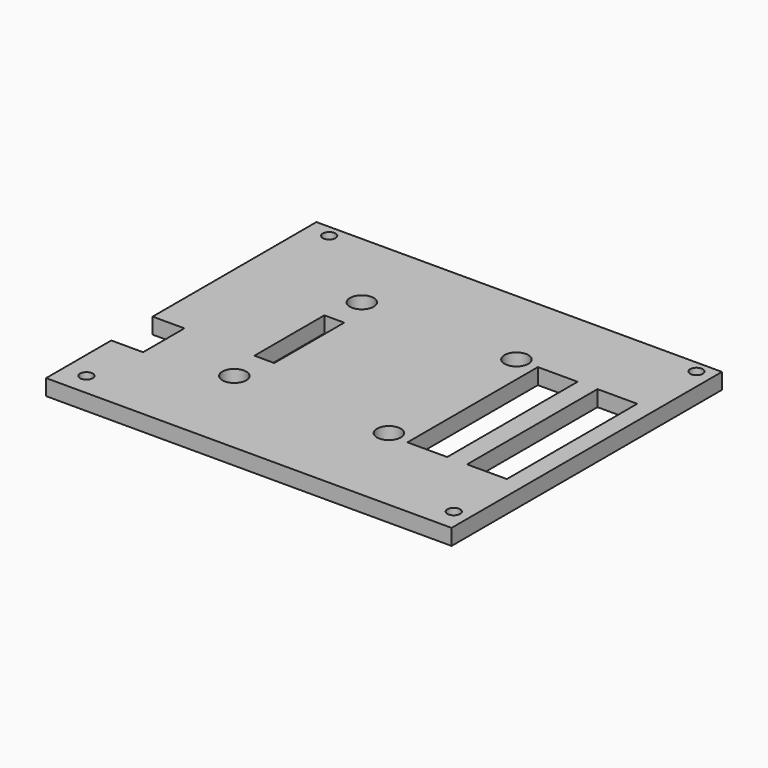
from build123d import *

# Parameters (mm, degrees)
CYLINDER010_R          = 1.6
CYLINDER010_DEPTH      = 10
CYLINDER012_R          = 1.6
CYLINDER012_DEPTH      = 10
CYLINDER011_R          = 1.6
CYLINDER011_DEPTH      = 10
CYLINDER013_R          = 1.6
CYLINDER013_DEPTH      = 10
BOX014_W               = 16
BOX014_H               = 3
BOX014_DEPTH           = 4
BOX014_PLACEMENT_ANGLE = 90
BOX018_W               = 5
BOX018_H               = 3
BOX018_DEPTH           = 3
BOX018_PLACEMENT_ANGLE = 90
BOX013_W               = 16
BOX013_H               = 3
BOX013_DEPTH           = 4
BOX013_PLACEMENT_ANGLE = 90
BOX015_W               = 25
BOX015_H               = 6
BOX015_DEPTH           = 4
BOX016_W               = 25
BOX016_H               = 6
BOX016_DEPTH           = 4
BOX017_W               = 5
BOX017_H               = 3
BOX017_DEPTH           = 3
CYLINDER004_R          = 3
CYLINDER004_DEPTH      = 2
CYLINDER005_R          = 3
CYLINDER005_DEPTH      = 2
CYLINDER008_R          = 1.6
CYLINDER008_DEPTH      = 10
CYLINDER007_R          = 1.6
CYLINDER007_DEPTH      = 10
CYLINDER009_R          = 1.6
CYLINDER009_DEPTH      = 10
CYLINDER006_R          = 1.6
CYLINDER006_DEPTH      = 10
BOX012_W               = 21
BOX012_H               = 3
BOX012_DEPTH           = 4
CYLINDER001_R          = 3
CYLINDER001_DEPTH      = 10
CYLINDER002_R          = 3
CYLINDER002_DEPTH      = 10
CYLINDER_R             = 3
CYLINDER_DEPTH         = 10
CYLINDER003_R          = 3
CYLINDER003_DEPTH      = 10
BOX011_W               = 5
BOX011_H               = 22
BOX011_DEPTH           = 10
BOX009_W               = 10
BOX009_H               = 41
BOX009_DEPTH           = 10
BOX010_W               = 10
BOX010_H               = 41
BOX010_DEPTH           = 10
BOX006_W               = 17
BOX006_H               = 13
BOX006_DEPTH           = 10
BOX_W                  = 102
BOX_H                  = 85
BOX_DEPTH              = 4


with BuildPart() as cylinder010:
    # Cylinder010 → Cylinder010 (new body)
    with BuildSketch(Plane(origin=(3.6, 5.69, 0), x_dir=(1, 0, 0), z_dir=(0, 0, 1))):
        Circle(CYLINDER010_R)
    extrude(amount=CYLINDER010_DEPTH)


with BuildPart() as cylinder012:
    # Cylinder012 → Cylinder012 (new body)
    with BuildSketch(Plane(origin=(96, 5.69, 0), x_dir=(1, 0, 0), z_dir=(0, 0, 1))):
        Circle(CYLINDER012_R)
    extrude(amount=CYLINDER012_DEPTH)


with BuildPart() as cylinder011:
    # Cylinder011 → Cylinder011 (new body)
    with BuildSketch(Plane(origin=(3.6, 82, 0), x_dir=(1, 0, 0), z_dir=(0, 0, 1))):
        Circle(CYLINDER011_R)
    extrude(amount=CYLINDER011_DEPTH)


with BuildPart() as cylinder013:
    # Cylinder013 → Cylinder013 (new body)
    with BuildSketch(Plane(origin=(96, 82, 0), x_dir=(1, 0, 0), z_dir=(0, 0, 1))):
        Circle(CYLINDER013_R)
    extrude(amount=CYLINDER013_DEPTH)


with BuildPart() as pins_sd_card_reader:
    # Box014 → Box014 (new body)
    with BuildSketch(Plane.XY):
        with Locations((8, 1.5)):
            Rectangle(BOX014_W, BOX014_H)
    extrude(amount=BOX014_DEPTH)


with BuildPart() as pins_sd_card_reader_1:
    # Box014 placement: moved
    add(pins_sd_card_reader.part.moved(Location((39, 42.5, 0))).rotate(Axis((39, 42.5, 0), (0, 0, 1)), BOX014_PLACEMENT_ANGLE))


with BuildPart() as smd_capacitor:
    # Box018 → Box018 (new body)
    with BuildSketch(Plane.XY):
        with Locations((2.5, 1.5)):
            Rectangle(BOX018_W, BOX018_H)
    extrude(amount=BOX018_DEPTH)


with BuildPart() as smd_capacitor_1:
    # Box018 placement: moved
    add(smd_capacitor.part.moved(Location((15.5, 47.5, 0))).rotate(Axis((15.5, 47.5, 0), (0, 0, 1)), BOX018_PLACEMENT_ANGLE))


with BuildPart() as pins_bluetooth:
    # Box013 → Box013 (new body)
    with BuildSketch(Plane.XY):
        with Locations((8, 1.5)):
            Rectangle(BOX013_W, BOX013_H)
    extrude(amount=BOX013_DEPTH)


with BuildPart() as pins_bluetooth_1:
    # Box013 placement: moved
    add(pins_bluetooth.part.moved(Location((92, 3.5, 0))).rotate(Axis((92, 3.5, 0), (0, 0, 1)), BOX013_PLACEMENT_ANGLE))


with BuildPart() as box015:
    # Box015 → Box015 (new body)
    with BuildSketch(Plane(origin=(29, 62, 0), x_dir=(1, 0, 0), z_dir=(0, 0, 1))):
        with Locations((12.5, 3)):
            Rectangle(BOX015_W, BOX015_H)
    extrude(amount=BOX015_DEPTH)


with BuildPart() as box016:
    # Box016 → Box016 (new body)
    with BuildSketch(Plane(origin=(29, 20, 0), x_dir=(1, 0, 0), z_dir=(0, 0, 1))):
        with Locations((12.5, 3)):
            Rectangle(BOX016_W, BOX016_H)
    extrude(amount=BOX016_DEPTH)


with BuildPart() as smd_resistor:
    # Box017 → Box017 (new body)
    with BuildSketch(Plane(origin=(11.5, 28.5, 0), x_dir=(1, 0, 0), z_dir=(0, 0, 1))):
        with Locations((2.5, 1.5)):
            Rectangle(BOX017_W, BOX017_H)
    extrude(amount=BOX017_DEPTH)


with BuildPart() as cylinder004:
    # Cylinder004 → Cylinder004 (new body)
    with BuildSketch(Plane(origin=(86.99, 68.6, 0), x_dir=(1, 0, 0), z_dir=(0, 0, 1))):
        Circle(CYLINDER004_R)
    extrude(amount=CYLINDER004_DEPTH)


with BuildPart() as cylinder005:
    # Cylinder005 → Cylinder005 (new body)
    with BuildSketch(Plane(origin=(71.83, 68.6, 0), x_dir=(1, 0, 0), z_dir=(0, 0, 1))):
        Circle(CYLINDER005_R)
    extrude(amount=CYLINDER005_DEPTH)


with BuildPart() as cylinder008:
    # Cylinder008 → Cylinder008 (new body)
    with BuildSketch(Plane(origin=(96, 5.69, 0), x_dir=(1, 0, 0), z_dir=(0, 0, 1))):
        Circle(CYLINDER008_R)
    extrude(amount=CYLINDER008_DEPTH)


with BuildPart() as cylinder007:
    # Cylinder007 → Cylinder007 (new body)
    with BuildSketch(Plane(origin=(3.6, 82, 0), x_dir=(1, 0, 0), z_dir=(0, 0, 1))):
        Circle(CYLINDER007_R)
    extrude(amount=CYLINDER007_DEPTH)


with BuildPart() as cylinder009:
    # Cylinder009 → Cylinder009 (new body)
    with BuildSketch(Plane(origin=(96, 82, 0), x_dir=(1, 0, 0), z_dir=(0, 0, 1))):
        Circle(CYLINDER009_R)
    extrude(amount=CYLINDER009_DEPTH)


with BuildPart() as board_holes:
    # Cylinder006 → Cylinder006 (new body)
    with BuildSketch(Plane(origin=(3.6, 5.69, 0), x_dir=(1, 0, 0), z_dir=(0, 0, 1))):
        Circle(CYLINDER006_R)
    extrude(amount=CYLINDER006_DEPTH)

    # Fusion004: union Cylinder008, Cylinder007, Cylinder009
    add(cylinder008.part)
    add(cylinder007.part)
    add(cylinder009.part)


with BuildPart() as obj1:
    # Box012 → Box012 (new body)
    with BuildSketch(Plane(origin=(69, 79, 0), x_dir=(1, 0, 0), z_dir=(0, 0, 1))):
        with Locations((10.5, 1.5)):
            Rectangle(BOX012_W, BOX012_H)
    extrude(amount=BOX012_DEPTH)

    # Fusion003: union pins_sd card reader, SMD capacitor, pins_bluetooth, Box015, Box016, SMD resistor, Cylinder004, Cylinder005, board holes
    add(pins_sd_card_reader_1.part)
    add(smd_capacitor_1.part)
    add(pins_bluetooth_1.part)
    add(box015.part)
    add(box016.part)
    add(smd_resistor.part)
    add(cylinder004.part)
    add(cylinder005.part)
    add(board_holes.part)

    # Fusion005: union Cylinder010, Cylinder012, Cylinder011, Cylinder013
    add(cylinder010.part)
    add(cylinder012.part)
    add(cylinder011.part)
    add(cylinder013.part)


with BuildPart() as cylinder001:
    # Cylinder001 → Cylinder001 (new body)
    with BuildSketch(Plane(origin=(26.3, 63.91, 0), x_dir=(1, 0, 0), z_dir=(0, 0, 1))):
        Circle(CYLINDER001_R)
    extrude(amount=CYLINDER001_DEPTH)


with BuildPart() as cylinder002:
    # Cylinder002 → Cylinder002 (new body)
    with BuildSketch(Plane(origin=(65.19, 23.81, 0), x_dir=(1, 0, 0), z_dir=(0, 0, 1))):
        Circle(CYLINDER002_R)
    extrude(amount=CYLINDER002_DEPTH)


with BuildPart() as cylinder:
    # Cylinder → Cylinder (new body)
    with BuildSketch(Plane(origin=(26.3, 23.81, 0), x_dir=(1, 0, 0), z_dir=(0, 0, 1))):
        Circle(CYLINDER_R)
    extrude(amount=CYLINDER_DEPTH)


with BuildPart() as cylinder003:
    # Cylinder003 → Cylinder003 (new body)
    with BuildSketch(Plane(origin=(65.19, 63.91, 0), x_dir=(1, 0, 0), z_dir=(0, 0, 1))):
        Circle(CYLINDER003_R)
    extrude(amount=CYLINDER003_DEPTH)


with BuildPart() as screen_holes:
    # Box011 → Box011 (new body)
    with BuildSketch(Plane(origin=(24, 33, 0), x_dir=(1, 0, 0), z_dir=(0, 0, 1))):
        with Locations((2.5, 11)):
            Rectangle(BOX011_W, BOX011_H)
    extrude(amount=BOX011_DEPTH)

    # Fusion002: union Cylinder001, Cylinder002, Cylinder, Cylinder003
    add(cylinder001.part)
    add(cylinder002.part)
    add(cylinder.part)
    add(cylinder003.part)


with BuildPart() as button_array:
    # Box009 → Box009 (new body)
    with BuildSketch(Plane(origin=(70.5, 23, 0), x_dir=(1, 0, 0), z_dir=(0, 0, 1))):
        with Locations((5, 20.5)):
            Rectangle(BOX009_W, BOX009_H)
    extrude(amount=BOX009_DEPTH)


with BuildPart() as button_arrays:
    # Box010 → Box010 (new body)
    with BuildSketch(Plane(origin=(85.5, 23, 0), x_dir=(1, 0, 0), z_dir=(0, 0, 1))):
        with Locations((5, 20.5)):
            Rectangle(BOX010_W, BOX010_H)
    extrude(amount=BOX010_DEPTH)

    # Fusion001: union button array
    add(button_array.part)


with BuildPart() as led_array_connector:
    # Box006 → Box006 (new body)
    with BuildSketch(Plane(origin=(-11, 20.5, 0), x_dir=(1, 0, 0), z_dir=(0, 0, 1))):
        with Locations((8.5, 6.5)):
            Rectangle(BOX006_W, BOX006_H)
    extrude(amount=BOX006_DEPTH)


with BuildPart() as final_top:
    # Box → Box (new body)
    with BuildSketch(Plane(origin=(-2, 0, 1), x_dir=(1, 0, 0), z_dir=(0, 0, 1))):
        with Locations((51, 42.5)):
            Rectangle(BOX_W, BOX_H)
    extrude(amount=BOX_DEPTH)

    # Cut001: cut led array connector
    add(led_array_connector.part, mode=Mode.SUBTRACT)

    # Cut002: cut button arrays
    add(button_arrays.part, mode=Mode.SUBTRACT)

    # Cut003: cut screen holes
    add(screen_holes.part, mode=Mode.SUBTRACT)

    # Cut004: cut obj1
    add(obj1.part, mode=Mode.SUBTRACT)


solid = final_top.part
